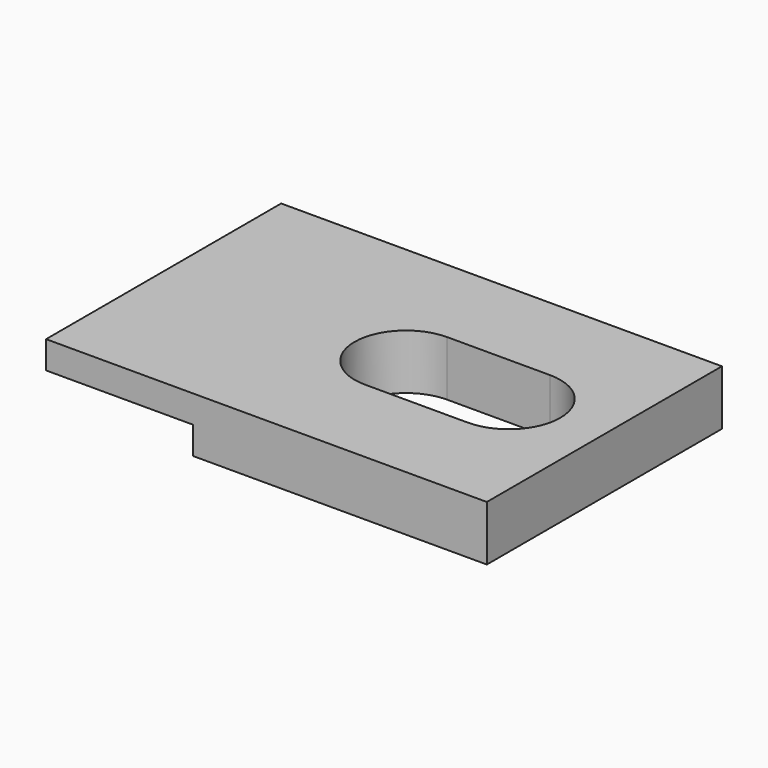
from build123d import *

# Parameters (mm, degrees)
F0_W     = 30
F0_H     = 20
F1_DEPTH = 3.75
F2_W     = 10
F2_H     = 1.875
F3_DEPTH = 24.3
F5_DEPTH = 16.12


with BuildPart() as f1:
    # F0 (on Top) → F1 (new body)
    with BuildSketch(Plane.XY):
        Rectangle(F0_W, F0_H)
    extrude(amount=F1_DEPTH)

    # F2 (on face) → F3 (cut)
    with BuildSketch(Plane.XZ.offset(10)):
        with Locations((-10, 0.9375)):
            Rectangle(F2_W, F2_H)
    extrude(amount=-F3_DEPTH, mode=Mode.SUBTRACT)

    # F4 (on face) → F5 (cut)
    with BuildSketch(Plane(origin=(0, 0, 0), x_dir=(1, 0, 0), z_dir=(0, 0, -1))):
        with BuildLine():
            ThreePointArc((1.5, -3.5), (3.974874, -2.474874), (5, 0))
            ThreePointArc((5, 0), (3.974874, 2.474874), (1.5, 3.5))
            ThreePointArc((1.5, 3.5), (-2, 0), (1.5, -3.5))
        make_face()
        with BuildLine():
            ThreePointArc((1.5, 3.5), (3.974874, 2.474874), (5, 0))
            ThreePointArc((5, 0), (6.025126, 2.474874), (8.5, 3.5))
            Line((8.5, 3.5), (1.5, 3.5))
        make_face()
        with BuildLine():
            ThreePointArc((8.5, -3.5), (6.025126, -2.474874), (5, 0))
            ThreePointArc((5, 0), (3.974874, -2.474874), (1.5, -3.5))
            Line((1.5, -3.5), (8.5, -3.5))
        make_face()
        with BuildLine():
            ThreePointArc((8.5, 3.5), (6.025126, 2.474874), (5, 0))
            ThreePointArc((5, 0), (6.025126, -2.474874), (8.5, -3.5))
            ThreePointArc((8.5, -3.5), (10.974874, -2.474874), (12, 0))
            ThreePointArc((12, 0), (10.974874, 2.474874), (8.5, 3.5))
        make_face()
    extrude(amount=-F5_DEPTH, mode=Mode.SUBTRACT)


solid = f1.part
